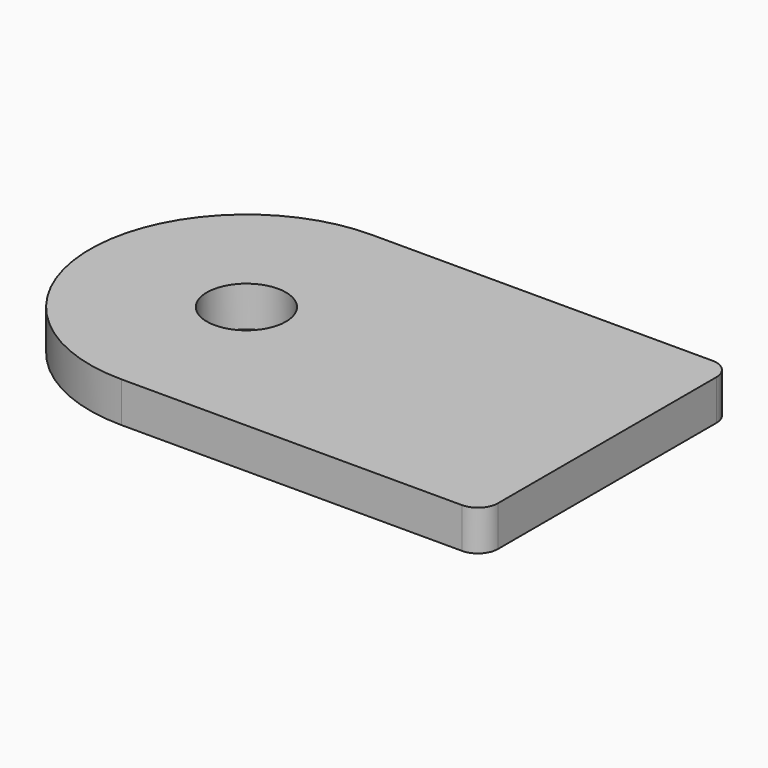
from build123d import *

# Parameters (mm, degrees)
F0_R     = 2.0193
F1_DEPTH = 2.0574


with BuildPart() as f1:
    # F0 (on Top) → F1 (new body)
    with BuildSketch(Plane.XY):
        with BuildLine():
            ThreePointArc((0, 6.9723), (-0.29758, 7.69072), (-1.016, 7.9883))
            Line((-1.016, 7.9883), (-18.415, 7.9883))
            ThreePointArc((-18.415, 7.9883), (-26.4033, 0), (-18.415, -7.9883))
            Line((-18.415, -7.9883), (-1.016, -7.9883))
            ThreePointArc((-1.016, -7.9883), (-0.29758, -7.69072), (0, -6.9723))
            Line((0, -6.9723), (0, 6.9723))
        make_face()
        with Locations((-18.415, 0)):
            Circle(F0_R, mode=Mode.SUBTRACT)
    extrude(amount=-F1_DEPTH)


solid = f1.part
